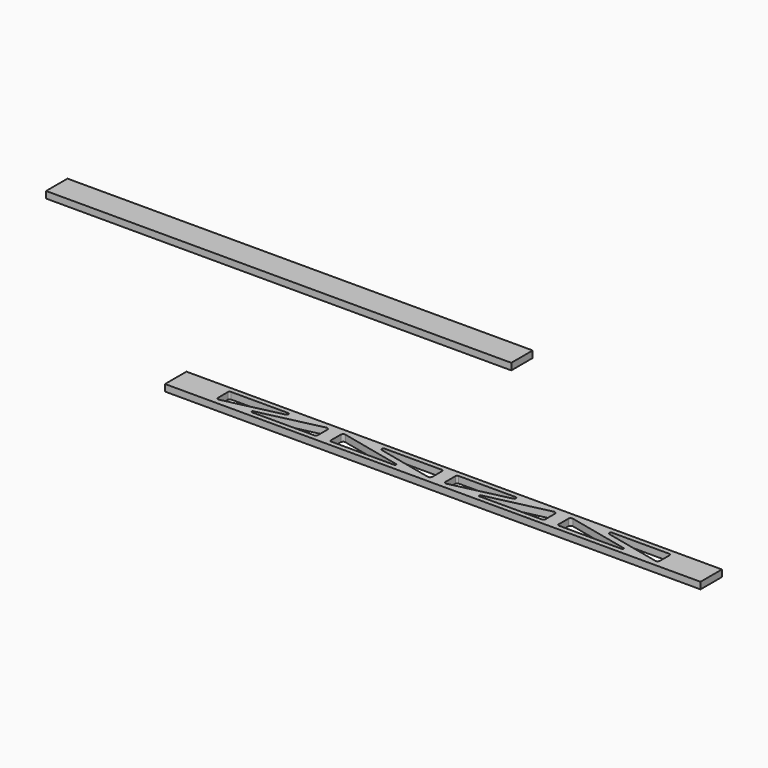
from build123d import *

# Parameters (mm, degrees)
F0_W     = 2032
F0_H     = 101.6
F1_DEPTH = 25.4
F0_W_2   = 1765.3
F2_DEPTH = 25.4


with BuildPart() as f1:
    # F0 (on Top) → F1 (new body)
    with BuildSketch(Plane.XY):
        with Locations((-6.195122, 1.533477)):
            Rectangle(F0_W, F0_H)
        with BuildLine():
            ThreePointArc((-833.479996, -27.735812), (-841.034244, -26.006102), (-844.395122, -19.023047))
            Line((-844.395122, -19.023047), (-844.395122, 26.933477))
            ThreePointArc((-844.395122, 26.933477), (-842.53525, 31.423605), (-838.045122, 33.283477))
            Line((-838.045122, 33.283477), (-621.587628, 33.283477))
            ThreePointArc((-621.587628, 33.283477), (-615.277228, 27.64154), (-620.180334, 20.741384))
            Line((-620.180334, 20.741384), (-833.479996, -27.735812))
        make_face(mode=Mode.SUBTRACT)
        with BuildLine():
            ThreePointArc((-463.395122, -23.866523), (-465.254994, -28.356651), (-469.745122, -30.216523))
            Line((-469.745122, -30.216523), (-708.279154, -30.216523))
            ThreePointArc((-708.279154, -30.216523), (-712.127889, -26.775485), (-709.137468, -22.567056))
            Line((-709.137468, -22.567056), (-474.066558, 30.858151))
            ThreePointArc((-474.066558, 30.858151), (-466.680965, 29.167058), (-463.395122, 22.339906))
            Line((-463.395122, 22.339906), (-463.395122, -23.866523))
        make_face(mode=Mode.SUBTRACT)
        with BuildLine():
            Line((-401.923686, 30.858151), (-166.852776, -22.567056))
            ThreePointArc((-166.852776, -22.567056), (-163.862355, -26.775485), (-167.71109, -30.216523))
            Line((-167.71109, -30.216523), (-406.245122, -30.216523))
            ThreePointArc((-406.245122, -30.216523), (-410.73525, -28.356651), (-412.595122, -23.866523))
            Line((-412.595122, -23.866523), (-412.595122, 22.339906))
            ThreePointArc((-412.595122, 22.339906), (-409.309279, 29.167058), (-401.923686, 30.858151))
        make_face(mode=Mode.SUBTRACT)
        with BuildLine():
            Line((-254.402616, 33.283477), (-37.945122, 33.283477))
            ThreePointArc((-37.945122, 33.283477), (-33.454994, 31.423605), (-31.595122, 26.933477))
            Line((-31.595122, 26.933477), (-31.595122, -19.023047))
            ThreePointArc((-31.595122, -19.023047), (-34.956, -26.006102), (-42.510248, -27.735812))
            Line((-42.510248, -27.735812), (-255.80991, 20.741384))
            ThreePointArc((-255.80991, 20.741384), (-260.713016, 27.64154), (-254.402616, 33.283477))
        make_face(mode=Mode.SUBTRACT)
        with BuildLine():
            Line((19.204878, -19.023047), (19.204878, 26.933477))
            ThreePointArc((19.204878, 26.933477), (21.06475, 31.423605), (25.554878, 33.283477))
            Line((25.554878, 33.283477), (242.012372, 33.283477))
            ThreePointArc((242.012372, 33.283477), (248.322772, 27.64154), (243.419666, 20.741384))
            Line((243.419666, 20.741384), (30.120004, -27.735812))
            ThreePointArc((30.120004, -27.735812), (22.565756, -26.006102), (19.204878, -19.023047))
        make_face(mode=Mode.SUBTRACT)
        with BuildLine():
            ThreePointArc((389.533442, 30.858151), (396.919035, 29.167058), (400.204878, 22.339906))
            Line((400.204878, 22.339906), (400.204878, -23.866523))
            ThreePointArc((400.204878, -23.866523), (398.345006, -28.356651), (393.854878, -30.216523))
            Line((393.854878, -30.216523), (155.320846, -30.216523))
            ThreePointArc((155.320846, -30.216523), (151.472111, -26.775485), (154.462532, -22.567056))
            Line((154.462532, -22.567056), (389.533442, 30.858151))
        make_face(mode=Mode.SUBTRACT)
        with BuildLine():
            Line((695.88891, -30.216523), (457.354878, -30.216523))
            ThreePointArc((457.354878, -30.216523), (452.86475, -28.356651), (451.004878, -23.866523))
            Line((451.004878, -23.866523), (451.004878, 22.339906))
            ThreePointArc((451.004878, 22.339906), (454.290721, 29.167058), (461.676314, 30.858151))
            Line((461.676314, 30.858151), (696.747224, -22.567056))
            ThreePointArc((696.747224, -22.567056), (699.737645, -26.775485), (695.88891, -30.216523))
        make_face(mode=Mode.SUBTRACT)
        with BuildLine():
            Line((832.004878, 26.933477), (832.004878, -19.023047))
            ThreePointArc((832.004878, -19.023047), (828.644, -26.006102), (821.089752, -27.735812))
            Line((821.089752, -27.735812), (607.79009, 20.741384))
            ThreePointArc((607.79009, 20.741384), (602.886984, 27.64154), (609.197384, 33.283477))
            Line((609.197384, 33.283477), (825.654878, 33.283477))
            ThreePointArc((825.654878, 33.283477), (830.145006, 31.423605), (832.004878, 26.933477))
        make_face(mode=Mode.SUBTRACT)
    extrude(amount=F1_DEPTH)


with BuildPart() as f2:
    # F0 (on Top) → F2 (new body)
    with BuildSketch(Plane.XY):
        with Locations((-1188.575275, 748.610221)):
            Rectangle(F0_W_2, F0_H)
    extrude(amount=F2_DEPTH)


solid = Compound([f1.part, f2.part])
